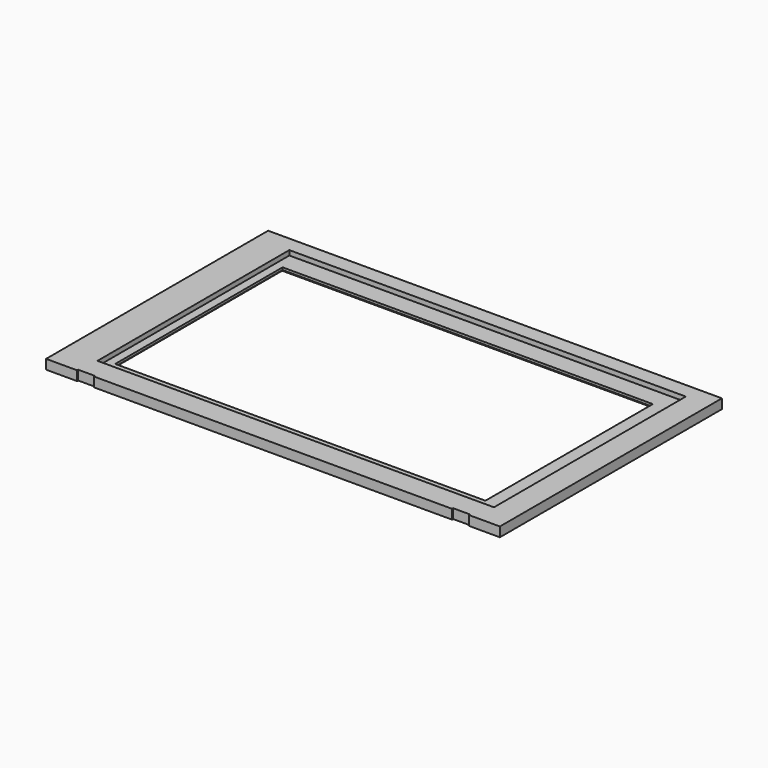
from build123d import *

# Parameters (mm, degrees)
F0_W     = 166
F0_H     = 100.4
F1_DEPTH = 4
F0_W_2   = 155
F0_H_2   = 87.6
F2_DEPTH = 2
F3_SIZE  = 1


with BuildPart() as f1:
    # F0 (on Top) → F1 (new body)
    with BuildSketch(Plane.XY):
        Polygon((97.986992, 48.91296), (-92.013008, 48.91296), (-92.013008, -67.28704), (-79.013008, -67.28704), (-79.013008, -66.73704), (-72.013008, -66.73704), (-72.013008, -67.28704), (77.986992, -67.28704), (77.986992, -66.73704), (84.986992, -66.73704), (84.986992, -67.28704), (97.986992, -67.28704), align=None)
        with Locations((4.986992, -7.68704)):
            Rectangle(F0_W, F0_H, mode=Mode.SUBTRACT)
    extrude(amount=F1_DEPTH)

    # F0 (on Top) → F2 (join)
    with BuildSketch(Plane.XY):
        with Locations((4.986992, -7.68704)):
            Rectangle(F0_W, F0_H)
        with Locations((2.986992, -9.18704)):
            Rectangle(F0_W_2, F0_H_2, mode=Mode.SUBTRACT)
    extrude(amount=F2_DEPTH)

    # F3
    f3_edges = [f1.edges().sort_by_distance(p)[0] for p in [
        (2.986992, -52.98704, 0),
        (-74.513008, -9.18704, 0),
        (2.986992, 34.61296, 0),
        (80.486992, -9.18704, 0),
    ]]
    chamfer(f3_edges, length=F3_SIZE)


solid = f1.part
